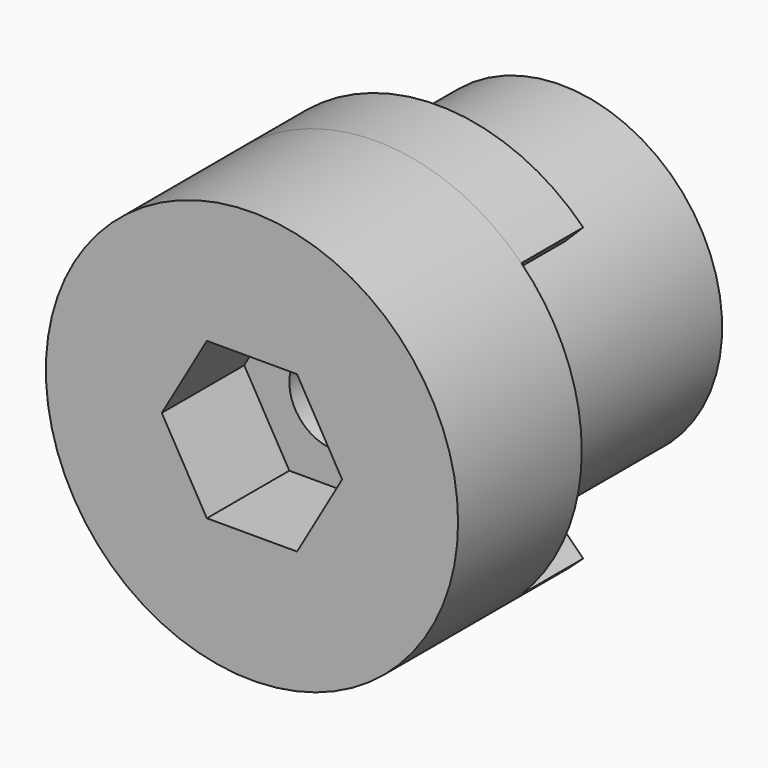
from build123d import *

# Parameters (mm, degrees)
F0_R     = 8
F1_DEPTH = 6
F3_DEPTH = 4
F5_DEPTH = 3
F6_R     = 1.75
F7_DEPTH = 25
F8_R     = 6.25
F8_R_2   = 1.75
F9_DEPTH = 9


with BuildPart() as f1:
    # F0 (on Front) → F1 (new body)
    with BuildSketch(Plane.XZ):
        Circle(F0_R)
    extrude(amount=F1_DEPTH)

    # F2 (on face) → F3 (cut)
    with BuildSketch(Plane.XZ.offset(6)):
        Polygon((-1.75, -3.0310889132), (1.75, -3.0310889132), (3.5, 0), (1.75, 3.0310889132), (-1.75, 3.0310889132), (-3.5, 0), align=None)
    extrude(amount=-F3_DEPTH, mode=Mode.SUBTRACT)

    # F4 (on face) → F5 (join)
    with BuildSketch(Plane(origin=(0, 0, 0), x_dir=(-1, 0, 0), z_dir=(0, 1, 0))):
        with BuildLine():
            Line((-4.9497474683, -4.9497474683), (-5.6568542495, -5.6568542495))
            ThreePointArc((-5.6568542495, -5.6568542495), (0, -8), (5.6568542495, -5.6568542495))
            Line((5.6568542495, -5.6568542495), (4.9497474683, -4.9497474683))
            ThreePointArc((4.9497474683, -4.9497474683), (0, -7), (-4.9497474683, -4.9497474683))
        make_face()
        with BuildLine():
            Line((4.9497474683, 4.9497474683), (5.6568542495, 5.6568542495))
            ThreePointArc((5.6568542495, 5.6568542495), (0, 8), (-5.6568542495, 5.6568542495))
            Line((-5.6568542495, 5.6568542495), (-4.9497474683, 4.9497474683))
            ThreePointArc((-4.9497474683, 4.9497474683), (0, 7), (4.9497474683, 4.9497474683))
        make_face()
    extrude(amount=F5_DEPTH)

    # F6 (on face) → F7 (cut)
    with BuildSketch(Plane.XZ.offset(2)):
        Circle(F6_R)
    extrude(amount=-F7_DEPTH, mode=Mode.SUBTRACT)


with BuildPart() as f9:
    # F8 (on face) → F9 (new body)
    with BuildSketch(Plane(origin=(0, 0, 0), x_dir=(-1, 0, 0), z_dir=(0, 1, 0))):
        Circle(F8_R)
        Circle(F8_R_2, mode=Mode.SUBTRACT)
    extrude(amount=F9_DEPTH)


solid = Compound([f1.part, f9.part])
